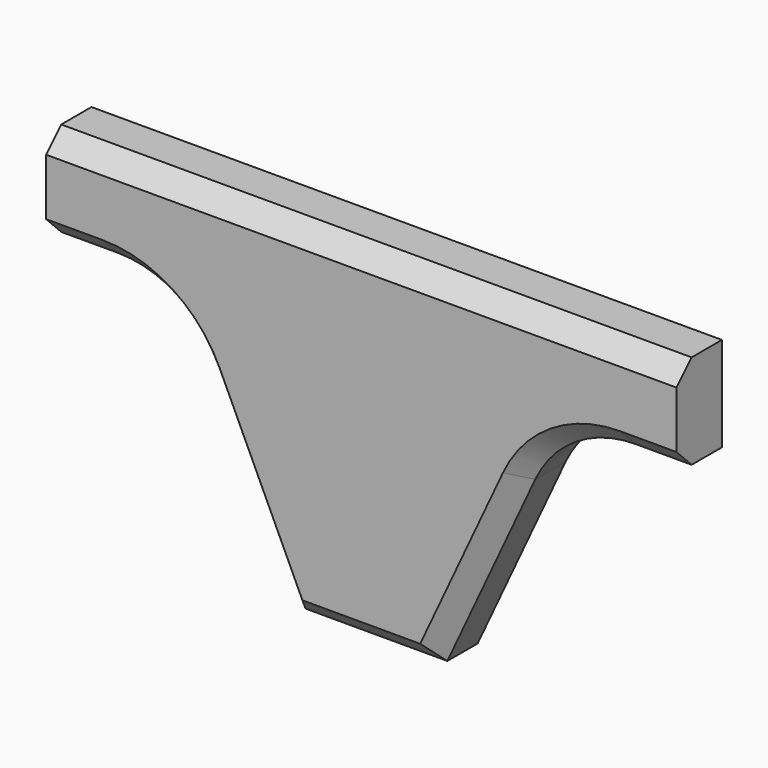
from build123d import *

# Parameters (mm, degrees)
F1_DEPTH = 36
F2_R     = 70
F3_SIZE  = 12


with BuildPart() as f1:
    # F0 (on Front) → F1 (new body)
    with BuildSketch(Plane.XZ):
        Polygon((-119.609225, 1.666667), (-45, -158.333333), (45, -158.333333), (119.609225, 1.666667), (200, 1.666667), (200, 61.666667), (-200, 61.666667), (-200, 1.666667), align=None)
    extrude(amount=F1_DEPTH)

    # F2
    f2_edges = [f1.edges().sort_by_distance(p)[0] for p in [
        (119.609225, -18, 1.666667),
        (-119.609225, -18, 1.666667),
    ]]
    fillet(f2_edges, radius=F2_R)

    # F3
    f3_edges = [f1.edges().sort_by_distance(p)[0] for p in [
        (0, -36, 61.666667),
        (182.102072, -36, 1.666667),
        (-72.881299, -36, -98.541694),
        (0, -36, -158.333333),
    ]]
    chamfer(f3_edges, length=F3_SIZE)


solid = f1.part
